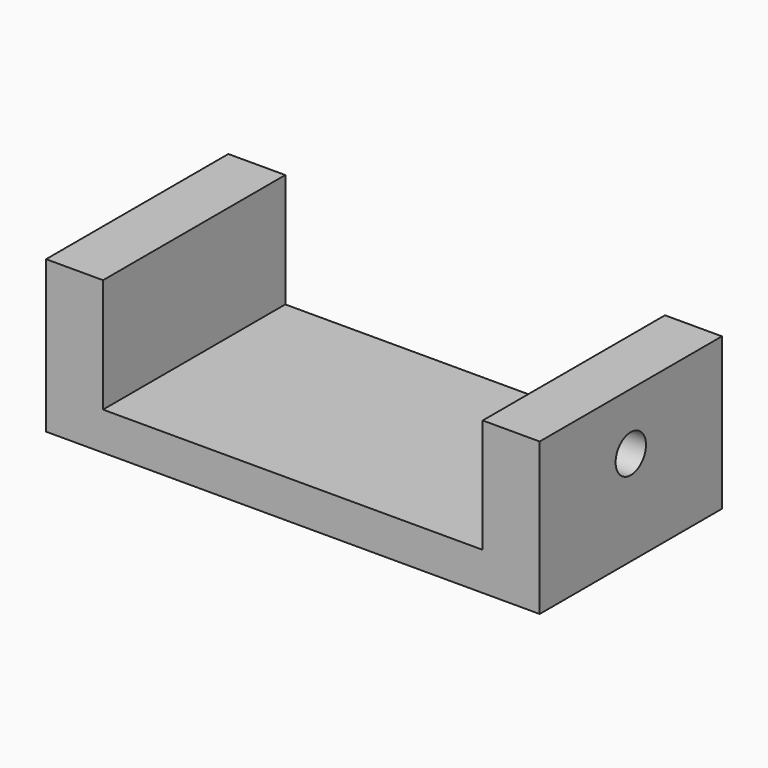
from build123d import *

# Parameters (mm, degrees)
F1_DEPTH = 38.1
F3_D     = 12.7
F3_DEPTH = 38.1


with BuildPart() as f1:
    # F0 (on Front) → F1 (new body, symmetric)
    with BuildSketch(Plane.XZ):
        Polygon((0, 38.1), (0, 0), (-127, 0), (-127, 38.1), (-146.05, 38.1), (-146.05, -12.7), (19.05, -12.7), (19.05, 38.1), align=None)
    extrude(amount=F1_DEPTH, both=True)

    # F3
    with Locations(Plane.YZ.offset(19.05)):
        with Locations((0, 19.05)):
            Hole(F3_D / 2, depth=F3_DEPTH)


solid = f1.part
